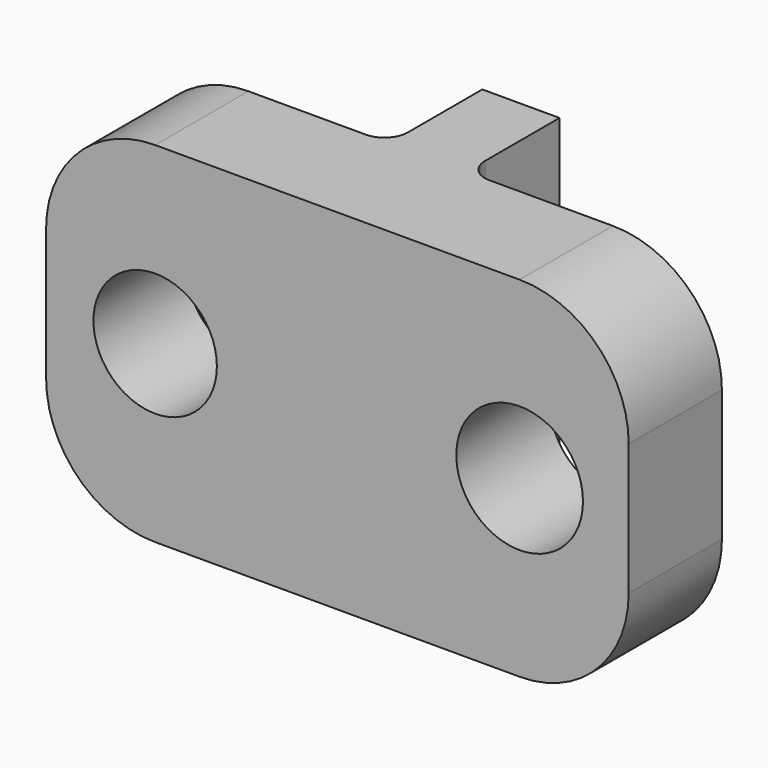
from build123d import *

# Parameters (mm, degrees)
F0_R     = 0.543659
F0_R_2   = 0.529693
F1_DEPTH = 1
F2_W     = 0.662431
F2_H     = 3
F3_DEPTH = 1
F4_R     = 0.2


with BuildPart() as f1:
    # F0 (on Front) → F1 (new body)
    with BuildSketch(Plane.XZ):
        with BuildLine():
            Line((6.098702, -0.960169), (2.970826, -0.960169))
            ThreePointArc((2.970826, -0.960169), (2.30893, -1.234335), (2.034764, -1.896231))
            Line((2.034764, -1.896231), (2.034764, -3.024107))
            ThreePointArc((2.034764, -3.024107), (2.30893, -3.686003), (2.970826, -3.960169))
            Line((2.970826, -3.960169), (6.098702, -3.960169))
            ThreePointArc((6.098702, -3.960169), (6.760597, -3.686003), (7.034764, -3.024107))
            Line((7.034764, -3.024107), (7.034764, -1.896231))
            ThreePointArc((7.034764, -1.896231), (6.760597, -1.234335), (6.098702, -0.960169))
        make_face()
        with Locations((6.098702, -2.460169)):
            Circle(F0_R, mode=Mode.SUBTRACT)
        with Locations((2.970826, -2.460169)):
            Circle(F0_R_2, mode=Mode.SUBTRACT)
    extrude(amount=F1_DEPTH)

    # F2 (on face) → F3 (join)
    with BuildSketch(Plane(origin=(0, 0, 0), x_dir=(-1, 0, 0), z_dir=(0, 1, 0))):
        with Locations((-4.509756, -2.460169)):
            Rectangle(F2_W, F2_H)
    extrude(amount=F3_DEPTH)

    # F4
    f4_edges = [f1.edges().sort_by_distance(p)[0] for p in [
        (4.840972, 0, -2.460169),
        (4.178541, 0, -2.460169),
    ]]
    fillet(f4_edges, radius=F4_R)


solid = f1.part
